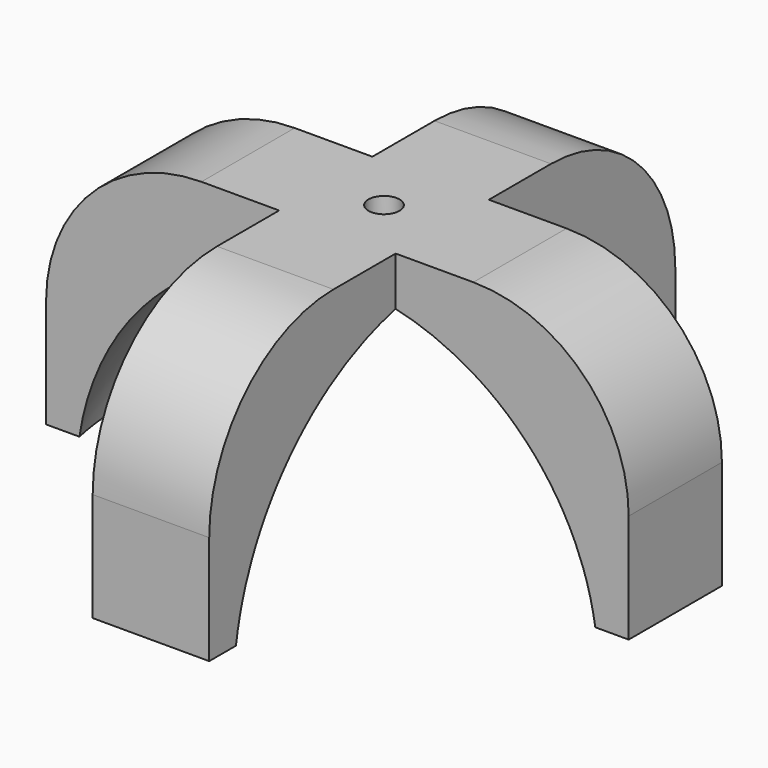
from build123d import *

# Parameters (mm, degrees)
F0_W     = 15
F0_H     = 30
F0_W_2   = 30
F0_H_2   = 15
F0_R     = 2
F1_DEPTH = 30
F2_DEPTH = 4
F10_R    = 1.5
F8_R     = 3.75
F13_R    = 20


with BuildPart() as f1:
    # F0 (on Top) → F1 (new body)
    with BuildSketch(Plane.XY):
        with Locations((0, 22.5)):
            Rectangle(F0_W, F0_H)
        with Locations((-22.5, 0)):
            Rectangle(F0_W_2, F0_H_2)
        Rectangle(F0_W, F0_H_2)
        Circle(F0_R, mode=Mode.SUBTRACT)
        with Locations((0, -22.5)):
            Rectangle(F0_W, F0_H)
        with Locations((22.5, 0)):
            Rectangle(F0_W_2, F0_H_2)
    extrude(amount=-F1_DEPTH)

    # F2 (add): a face of the model
    f2_faces = [f1.faces().sort_by_distance(p)[0] for p in [
        (0, 36.4393398282, 0),
    ]]
    extrude(f2_faces, amount=F2_DEPTH)


with BuildPart() as f5:
    # F4 (on offset) → F5 (revolve)
    with BuildSketch(Plane.XY.offset(-35)):
        with BuildLine():
            ThreePointArc((-24.0402273975, -24.605435714), (13.3487111274, -31.7044462377), (34.4, 0))
            ThreePointArc((34.4, 0), (31.7006093917, 13.3578203385), (24.026083477, 24.619246795))
            Line((24.026083477, 24.619246795), (-24.0402273975, -24.605435714))
        make_face()
    revolve(axis=Axis((-0.0070719602, 0.0069055405, -35), (0.6986382683, 0.715475066, 0)))


with BuildPart() as f1_1:
    add(f1.part)

    # F6: cut F5
    add(f5.part, mode=Mode.SUBTRACT)


with BuildPart() as f11:
    # F10 (on offset) → F11 section 0
    with BuildSketch(Plane.XY.offset(2)):
        Circle(F10_R)
    # F8 (on offset) → F11 section 1
    with BuildSketch(Plane.XY.offset(-2)):
        Circle(F8_R)
    loft()


with BuildPart() as f1_2:
    add(f1_1.part)

    # F12: cut F11
    add(f11.part, mode=Mode.SUBTRACT)

    # F13
    f13_edges = [f1_2.edges().sort_by_distance(p)[0] for p in [
        (-37.5, 0, 4),
        (0, 37.5, 4),
        (37.5, 0, 4),
        (0, -37.5, 4),
    ]]
    fillet(f13_edges, radius=F13_R)


solid = f1_2.part
